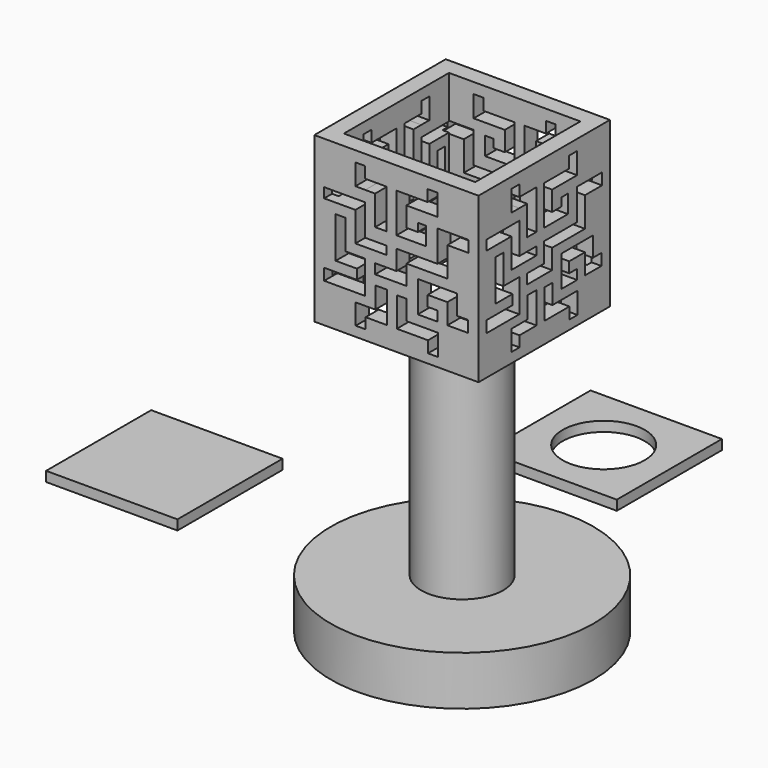
from build123d import *

# Parameters (mm, degrees)
F0_R      = 40
F1_DEPTH  = 15
F2_R      = 12.5
F2_R_2    = 10.5
F3_DEPTH  = 70
F5_W      = 40
F5_H      = 40
F6_DEPTH  = 3
F7_W      = 40
F7_H      = 40
F7_R      = 12.5
F8_DEPTH  = 3
F4_W      = 50
F4_H      = 50
F4_W_2    = 40
F4_H_2    = 40
F9_DEPTH  = 50
F14_DEPTH = 5
F15_DEPTH = 5
F16_DEPTH = 5
F17_DEPTH = 5
F18_R     = 12.5
F19_DEPTH = 5
F20_R     = 35
F21_DEPTH = 10


with BuildPart() as f1:
    # F0 (on Top) → F1 (new body)
    with BuildSketch(Plane.XY):
        Circle(F0_R)
    extrude(amount=F1_DEPTH)

    # F18 (on face) → F19 (cut)
    with BuildSketch(Plane.XY.offset(15)):
        Circle(F18_R)
    extrude(amount=-F19_DEPTH, mode=Mode.SUBTRACT)

    # F20 (on face) → F21 (cut)
    with BuildSketch(Plane(origin=(0, 0, 0), x_dir=(1, 0, 0), z_dir=(0, 0, -1))):
        Circle(F20_R)
    extrude(amount=-F21_DEPTH, mode=Mode.SUBTRACT)


with BuildPart() as f3:
    # F2 (on face) → F3 (new body)
    with BuildSketch(Plane.XY.offset(15)):
        Circle(F2_R)
        Circle(F2_R_2, mode=Mode.SUBTRACT)
    extrude(amount=F3_DEPTH)


with BuildPart() as f6:
    # F5 (on Top) → F6 (new body)
    with BuildSketch(Plane.XY):
        with Locations((-105.200285, 18.161668)):
            Rectangle(F5_W, F5_H)
    extrude(amount=F6_DEPTH)


with BuildPart() as f8:
    # F7 (on Top) → F8 (new body)
    with BuildSketch(Plane.XY):
        with Locations((-29.973098, 91.337338)):
            Rectangle(F7_W, F7_H)
        with Locations((-29.973098, 91.337338)):
            Circle(F7_R, mode=Mode.SUBTRACT)
    extrude(amount=F8_DEPTH)


with BuildPart() as f9:
    # F4 (on face) → F9 (new body)
    with BuildSketch(Plane.XY.offset(85)):
        Rectangle(F4_W, F4_H)
        Rectangle(F4_W_2, F4_H_2, mode=Mode.SUBTRACT)
    extrude(amount=F9_DEPTH)

    # F10 (on face) → F14 (cut)
    with BuildSketch(Plane(origin=(-25, 0, 0), x_dir=(0, -1, 0), z_dir=(-1, 0, 0))):
        Polygon((-12.5, 128.346519), (-12.5, 125.346519), (-9.476713, 125.346519), (-6.5, 125.329336), (-6.5, 116.329336), (-3, 116.329336), (-3, 125.312153), (-3, 128.329336), (-9.5, 128.329336), (-9.5, 131.75), (-12.5, 131.75), align=None)
        Polygon((3, 125.25), (9.5, 125.25), (12.5, 125.25), (12.5, 128.25), (12.5, 131.75), (9.5, 131.75), (9.5, 128.25), (3, 128.25), (0, 128.25), (0, 125.25), (0, 119.25), (0, 116.25), (3, 116.25), (6.5, 116.25), (9, 116.25), (9, 119.25), (9, 121.75), (6.5, 121.75), (6.5, 119.25), (3, 119.25), align=None)
        Polygon((-9.5, 119.007363), (-9.5, 122.007363), (-21.998611, 122.007363), (-22, 119.007363), (-12.5, 119.007363), (-12.5, 112.507363), (-12.5, 110.007363), (-9.5, 110.007363), (-3, 110.007363), (-3, 112.507363), (-9.5, 112.507363), align=None)
        Polygon((-9.5, 96.910526), (-9.5, 100.410526), (-9.5, 103.410526), (-9.5, 106.910526), (-12.041259, 106.910526), (-15.541259, 106.910526), (-15.541259, 115.910526), (-18.5, 115.910526), (-18.5, 106.910526), (-18.5, 103.410526), (-15.5, 103.410526), (-12.041259, 103.410526), (-12.041259, 100.410526), (-22, 100.410526), (-22, 96.910526), (-12, 96.910526), align=None)
        Polygon((-9.443051, 94.25), (-12.401792, 94.25), (-12.401792, 91.25), (-12.401792, 88), (-9.401792, 88), (-9.401792, 91.25), (-6.401792, 91.25), (-2.943051, 91.25), (-2.943051, 94.25), (-2.943051, 100.75), (-6.443051, 100.75), (-6.443051, 94.25), align=None)
        Polygon((12.610311, 91.25), (12.610311, 94.25), (9.610311, 94.25), (3.110311, 94.25), (3.110311, 100.25), (0.110311, 100.25), (0.110311, 94.25), (0.110311, 91.25), (3.110311, 91.25), (9.610311, 91.25), (9.610311, 87.75), (12.610311, 87.75), align=None)
        Polygon((15.5, 100.671798), (15.5, 97.171798), (18.5, 97.171798), (21.75, 97.171798), (21.75, 100.671798), (18.5, 100.671798), (18.5, 103.171798), (18.5, 106.671798), (15.5, 106.671798), (9.5, 106.671798), (6.5, 106.671798), (6.5, 103.171798), (6.5, 100.171798), (6.5, 97.171798), (9.5, 97.171798), (12.5, 97.171798), (12.5, 100.171798), (9.5, 100.171798), (9.5, 103.390081), (15.5, 103.390081), align=None)
        Polygon((15.5, 122.172707), (12.5, 122.172707), (12.5, 118.672707), (12.5, 112.672707), (3, 112.672707), (0, 112.672707), (0, 109.672707), (0, 106.672707), (-6.5, 106.672707), (-6.5, 103.672707), (0, 103.672707), (3, 103.672707), (3, 106.672707), (3, 109.672707), (12.5, 109.672707), (15.5, 109.672707), (15.5, 112.672707), (15.5, 118.672707), (22, 118.672707), (22, 122.172707), align=None)
    extrude(amount=-F14_DEPTH, mode=Mode.SUBTRACT)

    # F11 (on face) → F15 (cut)
    with BuildSketch(Plane(origin=(0, 25, 0), x_dir=(-1, 0, 0), z_dir=(0, 1, 0))):
        Polygon((-12.5, 128.346519), (-12.5, 125.346519), (-9.476713, 125.346519), (-6.5, 125.329336), (-6.5, 116.329336), (-3, 116.329336), (-3, 125.312153), (-3, 128.329336), (-9.5, 128.329336), (-9.5, 131.75), (-12.5, 131.75), align=None)
        Polygon((3, 125.25), (9.5, 125.25), (12.5, 125.25), (12.5, 128.25), (12.5, 131.75), (9.5, 131.75), (9.5, 128.25), (3, 128.25), (0, 128.25), (0, 125.25), (0, 119.25), (0, 116.25), (3, 116.25), (6.5, 116.25), (9, 116.25), (9, 119.25), (9, 121.75), (6.5, 121.75), (6.5, 119.25), (3, 119.25), align=None)
        Polygon((-9.5, 119.007363), (-9.5, 122.007363), (-21.998611, 122.007363), (-22, 119.007363), (-12.5, 119.007363), (-12.5, 112.507363), (-12.5, 110.007363), (-9.5, 110.007363), (-3, 110.007363), (-3, 112.507363), (-9.5, 112.507363), align=None)
        Polygon((-9.5, 96.910526), (-9.5, 100.410526), (-9.5, 103.410526), (-9.5, 106.910526), (-12.041259, 106.910526), (-15.541259, 106.910526), (-15.541259, 115.910526), (-18.5, 115.910526), (-18.5, 106.910526), (-18.5, 103.410526), (-15.5, 103.410526), (-12.041259, 103.410526), (-12.041259, 100.410526), (-22, 100.410526), (-22, 96.910526), (-12, 96.910526), align=None)
        Polygon((-9.443051, 94.25), (-12.401792, 94.25), (-12.401792, 91.25), (-12.401792, 88), (-9.401792, 88), (-9.401792, 91.25), (-6.401792, 91.25), (-2.943051, 91.25), (-2.943051, 94.25), (-2.943051, 100.75), (-6.443051, 100.75), (-6.443051, 94.25), align=None)
        Polygon((12.610311, 91.25), (12.610311, 94.25), (9.610311, 94.25), (3.110311, 94.25), (3.110311, 100.25), (0.110311, 100.25), (0.110311, 94.25), (0.110311, 91.25), (3.110311, 91.25), (9.610311, 91.25), (9.610311, 87.75), (12.610311, 87.75), align=None)
        Polygon((15.5, 100.671798), (15.5, 97.171798), (18.5, 97.171798), (21.75, 97.171798), (21.75, 100.671798), (18.5, 100.671798), (18.5, 103.171798), (18.5, 106.671798), (15.5, 106.671798), (9.5, 106.671798), (6.5, 106.671798), (6.5, 103.171798), (6.5, 100.171798), (6.5, 97.171798), (9.5, 97.171798), (12.5, 97.171798), (12.5, 100.171798), (9.5, 100.171798), (9.5, 103.390081), (15.5, 103.390081), align=None)
        Polygon((15.5, 122.172707), (12.5, 122.172707), (12.5, 118.672707), (12.5, 112.672707), (3, 112.672707), (0, 112.672707), (0, 109.672707), (0, 106.672707), (-6.5, 106.672707), (-6.5, 103.672707), (0, 103.672707), (3, 103.672707), (3, 106.672707), (3, 109.672707), (12.5, 109.672707), (15.5, 109.672707), (15.5, 112.672707), (15.5, 118.672707), (22, 118.672707), (22, 122.172707), align=None)
    extrude(amount=-F15_DEPTH, mode=Mode.SUBTRACT)

    # F12 (on face) → F16 (cut)
    with BuildSketch(Plane.YZ.offset(25)):
        Polygon((-12.5, 128.346519), (-12.5, 125.346519), (-9.476713, 125.346519), (-6.5, 125.329336), (-6.5, 116.329336), (-3, 116.329336), (-3, 125.312153), (-3, 128.329336), (-9.5, 128.329336), (-9.5, 131.75), (-12.5, 131.75), align=None)
        Polygon((3, 125.25), (9.5, 125.25), (12.5, 125.25), (12.5, 128.25), (12.5, 131.75), (9.5, 131.75), (9.5, 128.25), (3, 128.25), (0, 128.25), (0, 125.25), (0, 119.25), (0, 116.25), (3, 116.25), (6.5, 116.25), (9, 116.25), (9, 119.25), (9, 121.75), (6.5, 121.75), (6.5, 119.25), (3, 119.25), align=None)
        Polygon((-9.5, 119.007363), (-9.5, 122.007363), (-21.998611, 122.007363), (-22, 119.007363), (-12.5, 119.007363), (-12.5, 112.507363), (-12.5, 110.007363), (-9.5, 110.007363), (-3, 110.007363), (-3, 112.507363), (-9.5, 112.507363), align=None)
        Polygon((-9.5, 96.910526), (-9.5, 100.410526), (-9.5, 103.410526), (-9.5, 106.910526), (-12.041259, 106.910526), (-15.541259, 106.910526), (-15.541259, 115.910526), (-18.5, 115.910526), (-18.5, 106.910526), (-18.5, 103.410526), (-15.5, 103.410526), (-12.041259, 103.410526), (-12.041259, 100.410526), (-22, 100.410526), (-22, 96.910526), (-12, 96.910526), align=None)
        Polygon((-9.443051, 94.25), (-12.401792, 94.25), (-12.401792, 91.25), (-12.401792, 88), (-9.401792, 88), (-9.401792, 91.25), (-6.401792, 91.25), (-2.943051, 91.25), (-2.943051, 94.25), (-2.943051, 100.75), (-6.443051, 100.75), (-6.443051, 94.25), align=None)
        Polygon((12.610311, 91.25), (12.610311, 94.25), (9.610311, 94.25), (3.110311, 94.25), (3.110311, 100.25), (0.110311, 100.25), (0.110311, 94.25), (0.110311, 91.25), (3.110311, 91.25), (9.610311, 91.25), (9.610311, 87.75), (12.610311, 87.75), align=None)
        Polygon((15.5, 100.671798), (15.5, 97.171798), (18.5, 97.171798), (21.75, 97.171798), (21.75, 100.671798), (18.5, 100.671798), (18.5, 103.171798), (18.5, 106.671798), (15.5, 106.671798), (9.5, 106.671798), (6.5, 106.671798), (6.5, 103.171798), (6.5, 100.171798), (6.5, 97.171798), (9.5, 97.171798), (12.5, 97.171798), (12.5, 100.171798), (9.5, 100.171798), (9.5, 103.390081), (15.5, 103.390081), align=None)
        Polygon((15.5, 122.172707), (12.5, 122.172707), (12.5, 118.672707), (12.5, 112.672707), (3, 112.672707), (0, 112.672707), (0, 109.672707), (0, 106.672707), (-6.5, 106.672707), (-6.5, 103.672707), (0, 103.672707), (3, 103.672707), (3, 106.672707), (3, 109.672707), (12.5, 109.672707), (15.5, 109.672707), (15.5, 112.672707), (15.5, 118.672707), (22, 118.672707), (22, 122.172707), align=None)
    extrude(amount=-F16_DEPTH, mode=Mode.SUBTRACT)

    # F13 (on face) → F17 (cut)
    with BuildSketch(Plane.XZ.offset(25)):
        Polygon((-12.5, 128.346519), (-12.5, 125.346519), (-9.476713, 125.346519), (-6.5, 125.329336), (-6.5, 116.329336), (-3, 116.329336), (-3, 125.312153), (-3, 128.329336), (-9.5, 128.329336), (-9.5, 131.75), (-12.5, 131.75), align=None)
        Polygon((3, 125.25), (9.5, 125.25), (12.5, 125.25), (12.5, 128.25), (12.5, 131.75), (9.5, 131.75), (9.5, 128.25), (3, 128.25), (0, 128.25), (0, 125.25), (0, 119.25), (0, 116.25), (3, 116.25), (6.5, 116.25), (9, 116.25), (9, 119.25), (9, 121.75), (6.5, 121.75), (6.5, 119.25), (3, 119.25), align=None)
        Polygon((-9.5, 119.007363), (-9.5, 122.007363), (-21.998611, 122.007363), (-22, 119.007363), (-12.5, 119.007363), (-12.5, 112.507363), (-12.5, 110.007363), (-9.5, 110.007363), (-3, 110.007363), (-3, 112.507363), (-9.5, 112.507363), align=None)
        Polygon((-9.5, 96.910526), (-9.5, 100.410526), (-9.5, 103.410526), (-9.5, 106.910526), (-12.041259, 106.910526), (-15.541259, 106.910526), (-15.541259, 115.910526), (-18.5, 115.910526), (-18.5, 106.910526), (-18.5, 103.410526), (-15.5, 103.410526), (-12.041259, 103.410526), (-12.041259, 100.410526), (-22, 100.410526), (-22, 96.910526), (-12, 96.910526), align=None)
        Polygon((-9.443051, 94.25), (-12.401792, 94.25), (-12.401792, 91.25), (-12.401792, 88), (-9.401792, 88), (-9.401792, 91.25), (-6.401792, 91.25), (-2.943051, 91.25), (-2.943051, 94.25), (-2.943051, 100.75), (-6.443051, 100.75), (-6.443051, 94.25), align=None)
        Polygon((12.610311, 91.25), (12.610311, 94.25), (9.610311, 94.25), (3.110311, 94.25), (3.110311, 100.25), (0.110311, 100.25), (0.110311, 94.25), (0.110311, 91.25), (3.110311, 91.25), (9.610311, 91.25), (9.610311, 87.75), (12.610311, 87.75), align=None)
        Polygon((15.5, 100.671798), (15.5, 97.171798), (18.5, 97.171798), (21.75, 97.171798), (21.75, 100.671798), (18.5, 100.671798), (18.5, 103.171798), (18.5, 106.671798), (15.5, 106.671798), (9.5, 106.671798), (6.5, 106.671798), (6.5, 103.171798), (6.5, 100.171798), (6.5, 97.171798), (9.5, 97.171798), (12.5, 97.171798), (12.5, 100.171798), (9.5, 100.171798), (9.5, 103.390081), (15.5, 103.390081), align=None)
        Polygon((15.5, 122.172707), (12.5, 122.172707), (12.5, 118.672707), (12.5, 112.672707), (3, 112.672707), (0, 112.672707), (0, 109.672707), (0, 106.672707), (-6.5, 106.672707), (-6.5, 103.672707), (0, 103.672707), (3, 103.672707), (3, 106.672707), (3, 109.672707), (12.5, 109.672707), (15.5, 109.672707), (15.5, 112.672707), (15.5, 118.672707), (22, 118.672707), (22, 122.172707), align=None)
    extrude(amount=-F17_DEPTH, mode=Mode.SUBTRACT)


solid = Compound([f1.part, f3.part, f6.part, f8.part, f9.part])
